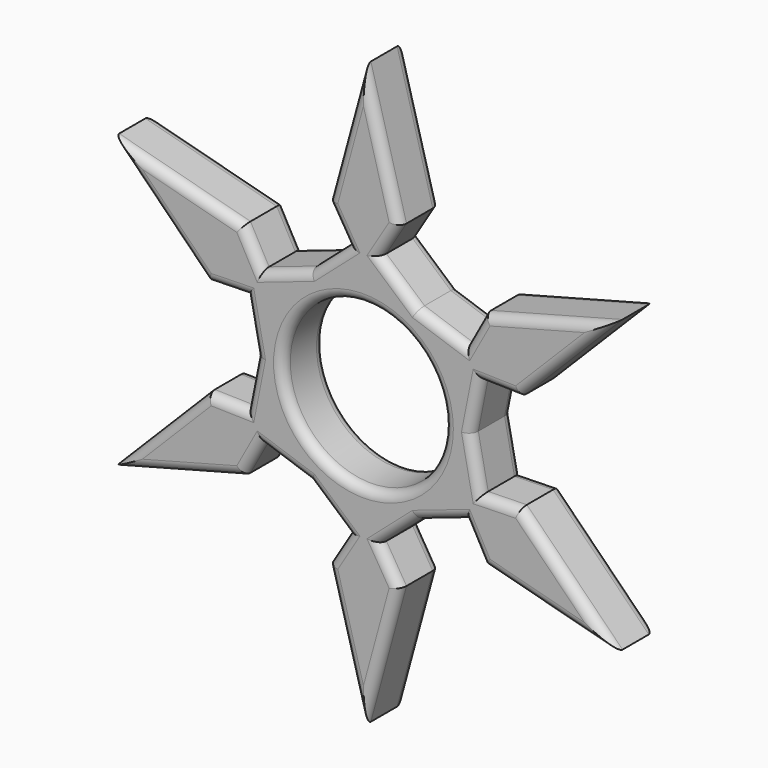
from build123d import *

# Parameters (mm, degrees)
F0_R     = 10.9982
F1_DEPTH = 7.0104
F2_R     = 1.27


with BuildPart() as f1:
    # F0 (on Front) → F1 (new body)
    with BuildSketch(Plane.XZ):
        Polygon((-7.332348, -12.7), (7.332348, -12.7), (14.664697, 0), (7.332348, 12.7), (-7.332348, 12.7), (-14.664697, 0), align=None)
        Circle(F0_R, mode=Mode.SUBTRACT)
        Polygon((-7.332348, 12.7), (7.332348, 12.7), (2.120396, 17.263552), (4.864522, 21.774086), (0, 39.660717), (-4.864522, 21.774086), (-2.120396, 17.263552), align=None)
        Polygon((-16.010873, 6.795459), (-14.664697, 0), (-7.332348, 12.7), (-13.890477, 10.468093), (-16.424651, 15.099843), (-34.347189, 19.830359), (-21.289173, 6.674243), align=None)
        Polygon((-13.890477, -10.468093), (-7.332348, -12.7), (-14.664697, 0), (-16.010873, -6.795459), (-21.289173, -6.674243), (-34.347189, -19.830359), (-16.424651, -15.099843), align=None)
        Polygon((2.120396, -17.263552), (7.332348, -12.7), (-7.332348, -12.7), (-2.120396, -17.263552), (-4.864522, -21.774086), (0, -39.660717), (4.864522, -21.774086), align=None)
        Polygon((14.664697, 0), (7.332348, -12.7), (13.890477, -10.468093), (16.424651, -15.099843), (34.347189, -19.830359), (21.289173, -6.674243), (16.010873, -6.795459), align=None)
        Polygon((7.332348, 12.7), (14.664697, 0), (16.010873, 6.795459), (21.289173, 6.674243), (34.347189, 19.830359), (16.424651, 15.099843), (13.890477, 10.468093), align=None)
    extrude(amount=F1_DEPTH)

    # F2
    f2_edges = [f1.edges().sort_by_distance(p)[0] for p in [
        (4.726372, -7.0104, 14.981776),
        (3.492459, -7.0104, 19.518819),
        (2.432261, -7.0104, 30.717402),
        (-2.432261, -7.0104, 30.717402),
        (-3.492459, -7.0104, 19.518819),
        (-4.726372, -7.0104, 14.981776),
        (-10.611413, -7.0104, 11.584046),
        (-15.157564, -7.0104, 12.783968),
        (-25.38592, -7.0104, 17.465101),
        (-27.818181, -7.0104, 13.252301),
        (-18.650023, -7.0104, 6.734851),
        (-15.337785, -7.0104, 3.39773),
        (-15.337785, -7.0104, -3.39773),
        (-18.650023, -7.0104, -6.734851),
        (-27.818181, -7.0104, -13.252301),
        (-25.38592, -7.0104, -17.465101),
        (-15.157564, -7.0104, -12.783968),
        (-10.611413, -7.0104, -11.584046),
        (-4.726372, -7.0104, -14.981776),
        (-3.492459, -7.0104, -19.518819),
        (-2.432261, -7.0104, -30.717402),
        (2.432261, -7.0104, -30.717402),
        (3.492459, -7.0104, -19.518819),
        (4.726372, -7.0104, -14.981776),
        (10.611413, -7.0104, -11.584046),
        (15.157564, -7.0104, -12.783968),
        (25.38592, -7.0104, -17.465101),
        (27.818181, -7.0104, -13.252301),
        (18.650023, -7.0104, -6.734851),
        (15.337785, -7.0104, -3.39773),
        (15.337785, -7.0104, 3.39773),
        (18.650023, -7.0104, 6.734851),
        (27.818181, -7.0104, 13.252301),
        (25.38592, -7.0104, 17.465101),
        (15.157564, -7.0104, 12.783968),
        (10.611413, -7.0104, 11.584046),
        (-10.9982, -7.0104, 0),
        (4.726372, 0, 14.981776),
        (3.492459, 0, 19.518819),
        (2.432261, 0, 30.717402),
        (-2.432261, 0, 30.717402),
        (-3.492459, 0, 19.518819),
        (-4.726372, 0, 14.981776),
        (-10.611413, 0, 11.584046),
        (-15.157564, 0, 12.783968),
        (-25.38592, 0, 17.465101),
        (-27.818181, 0, 13.252301),
        (-18.650023, 0, 6.734851),
        (-15.337785, 0, 3.39773),
        (-15.337785, 0, -3.39773),
        (-18.650023, 0, -6.734851),
        (-27.818181, 0, -13.252301),
        (-25.38592, 0, -17.465101),
        (-15.157564, 0, -12.783968),
        (-10.611413, 0, -11.584046),
        (-4.726372, 0, -14.981776),
        (-3.492459, 0, -19.518819),
        (-2.432261, 0, -30.717402),
        (2.432261, 0, -30.717402),
        (3.492459, 0, -19.518819),
        (4.726372, 0, -14.981776),
        (10.611413, 0, -11.584046),
        (15.157564, 0, -12.783968),
        (25.38592, 0, -17.465101),
        (27.818181, 0, -13.252301),
        (18.650023, 0, -6.734851),
        (15.337785, 0, -3.39773),
        (15.337785, 0, 3.39773),
        (18.650023, 0, 6.734851),
        (27.818181, 0, 13.252301),
        (25.38592, 0, 17.465101),
        (15.157564, 0, 12.783968),
        (10.611413, 0, 11.584046),
        (-10.9982, 0, 0),
    ]]
    fillet(f2_edges, radius=F2_R)


solid = f1.part
